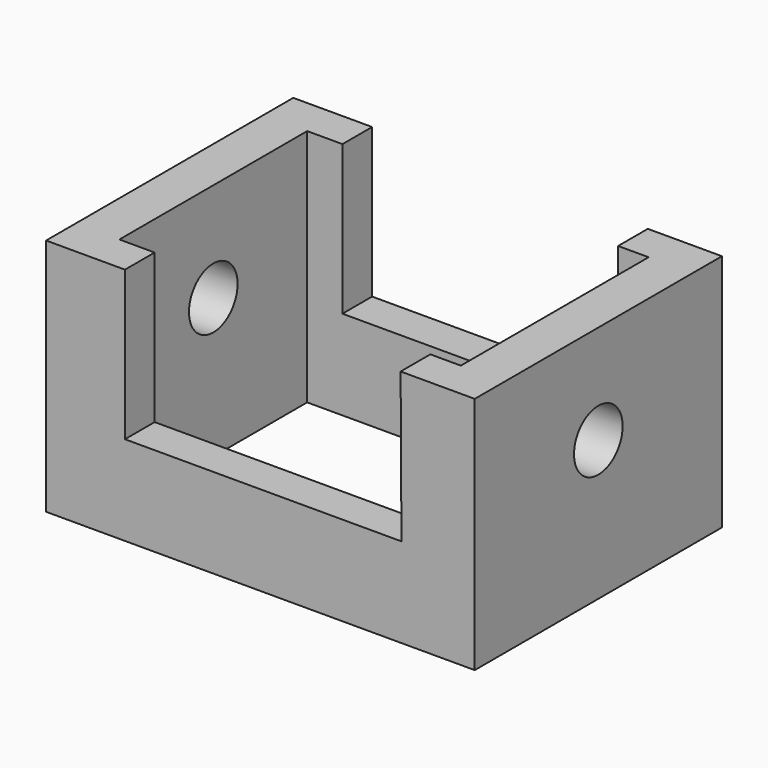
from build123d import *

# Parameters (mm, degrees)
F0_W          = 106.6800057888
F0_H          = 76.8927261233
F1_DEPTH      = 59.436
F2_W          = 84.9745497108
F2_H          = 58.4200024605
F3_DEPTH      = 59.437
F5_DEPTH      = 80.772
F5_DEPTH_BACK = 74.422
F6_R          = 7.5638145865
F7_DEPTH      = 66.548
F7_DEPTH_BACK = 73.152


with BuildPart() as f1:
    # F0 (on Top) → F1 (new body)
    with BuildSketch(Plane.XY):
        Rectangle(F0_W, F0_H)
    extrude(amount=F1_DEPTH)

    # F2 (on Top) → F3 (cut, through all)
    with BuildSketch(Plane.XY):
        Rectangle(F2_W, F2_H)
    extrude(amount=F3_DEPTH, mode=Mode.SUBTRACT)

    # F4 (on Front) → F5 (cut, two sides)
    with BuildSketch(Plane.XZ) as f5_sk:
        Polygon((34.867271781, 64.3081814051), (-33.7127298117, 64.0772730112), (-33.7127298117, 22.2827270627), (35.0981801748, 22.2827270627), align=None)
    extrude(amount=F5_DEPTH, mode=Mode.SUBTRACT)
    extrude(f5_sk.sketch, amount=-F5_DEPTH_BACK, mode=Mode.SUBTRACT)

    # F6 (on Right) → F7 (cut, two sides)
    with BuildSketch(Plane.YZ) as f7_sk:
        with Locations((0, 34.751817584)):
            Circle(F6_R)
    extrude(amount=-F7_DEPTH, mode=Mode.SUBTRACT)
    extrude(f7_sk.sketch, amount=F7_DEPTH_BACK, mode=Mode.SUBTRACT)


solid = f1.part
